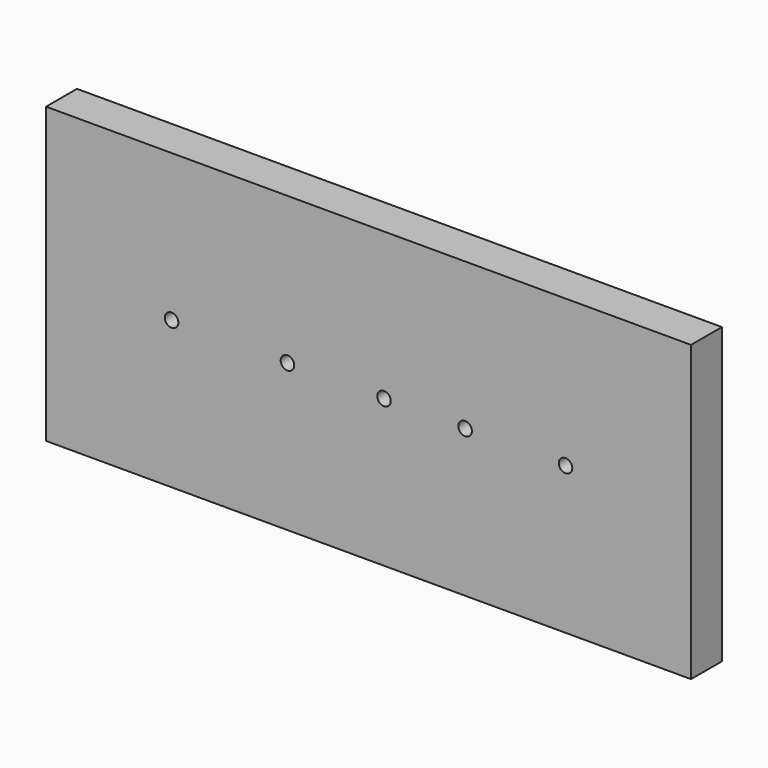
from build123d import *

# Parameters (mm, degrees)
F0_R     = 1.75
F1_DEPTH = 10


with BuildPart() as f1:
    # F0 (on Front) → F1 (new body)
    with BuildSketch(Plane.XZ):
        Polygon((96.185882, 48.943513), (76.185882, 48.943513), (-70.814118, 48.943513), (-70.814118, 10.843513), (-70.814118, -27.256487), (-62.102672, -27.256487), (96.185882, -27.256487), align=None)
        with Locations((-38.314118, 10.843513)):
            Circle(F0_R, mode=Mode.SUBTRACT)
        with BuildLine():
            ThreePointArc((-6.564118, 10.843513), (-8.314118, 9.093513), (-10.064118, 10.843513))
            ThreePointArc((-10.064118, 10.843513), (-8.314118, 12.593513), (-6.564118, 10.843513))
        make_face(mode=Mode.SUBTRACT)
        with BuildLine():
            ThreePointArc((18.435882, 10.843513), (16.685882, 9.093513), (14.935882, 10.843513))
            ThreePointArc((14.935882, 10.843513), (16.685882, 12.593513), (18.435882, 10.843513))
        make_face(mode=Mode.SUBTRACT)
        with BuildLine():
            ThreePointArc((39.435882, 10.843513), (37.685882, 9.093513), (35.935882, 10.843513))
            ThreePointArc((35.935882, 10.843513), (37.685882, 12.593513), (39.435882, 10.843513))
        make_face(mode=Mode.SUBTRACT)
        with BuildLine():
            ThreePointArc((65.435882, 10.843513), (63.685882, 9.093513), (61.935882, 10.843513))
            ThreePointArc((61.935882, 10.843513), (63.685882, 12.593513), (65.435882, 10.843513))
        make_face(mode=Mode.SUBTRACT)
    extrude(amount=F1_DEPTH)


solid = f1.part
